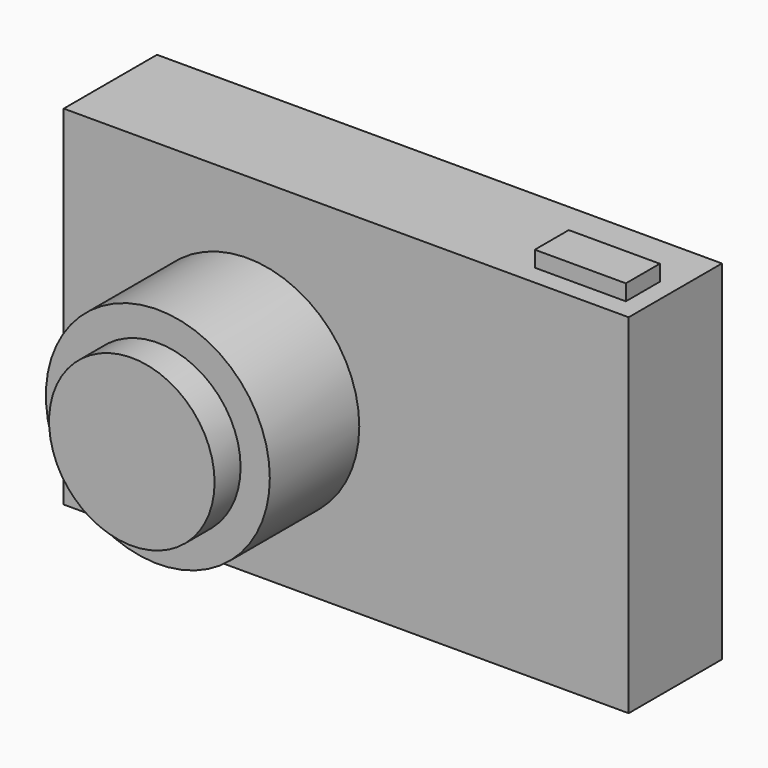
from build123d import *

# Parameters (mm, degrees)
F0_W      = 180.9290349483
F0_H      = 111.6445362568
F1_DEPTH  = 25.4
F2_R      = 35.8615179987
F3_DEPTH  = 35.814
F4_R      = 26.5022456756
F5_DEPTH  = 10.414
F6_W      = 29.163653031
F6_H      = 13.6000299826
F7_DEPTH  = 5.08
F8_DEPTH  = 11.938
F10_R     = 16.3527851641
F10_R_2   = 5.6386158943
F11_DEPTH = 3.302


with BuildPart() as f1:
    # F0 (on Front) → F1 (new body)
    with BuildSketch(Plane.XZ):
        with Locations((-25.5821794271, -14.9854421616)):
            Rectangle(F0_W, F0_H)
    extrude(amount=F1_DEPTH)

    # F2 (on face) → F3 (join)
    with BuildSketch(Plane.XZ.offset(25.4)):
        with Locations((-57.2519302368, -18.0181078613)):
            Circle(F2_R)
    extrude(amount=F3_DEPTH)

    # F4 (on face) → F5 (join)
    with BuildSketch(Plane.XZ.offset(61.214)):
        with Locations((-57.2519302368, -18.0181078613)):
            Circle(F4_R)
    extrude(amount=F5_DEPTH)

    # F6 (on face) → F7 (join)
    with BuildSketch(Plane.XY.offset(40.8368259668)):
        with Locations((44.361977838, -12.2991851531)):
            Rectangle(F6_W, F6_H)
    extrude(amount=F7_DEPTH)

    # F8 (add): a face of the model
    f8_faces = [f1.faces().sort_by_distance(p)[0] for p in [
        (-25.5821794271, 0, -14.9854421616),
    ]]
    extrude(f8_faces, amount=F8_DEPTH)

    # F10 (on face) → F11 (join)
    with BuildSketch(Plane(origin=(0, 11.938, 0), x_dir=(-1, 0, 0), z_dir=(0, 1, 0))):
        with Locations((67.5977021456, -27.2572916001)):
            Circle(F10_R)
        with Locations((82.7291309834, -4.6637952328)):
            Circle(F10_R_2)
    extrude(amount=F11_DEPTH)


solid = f1.part
